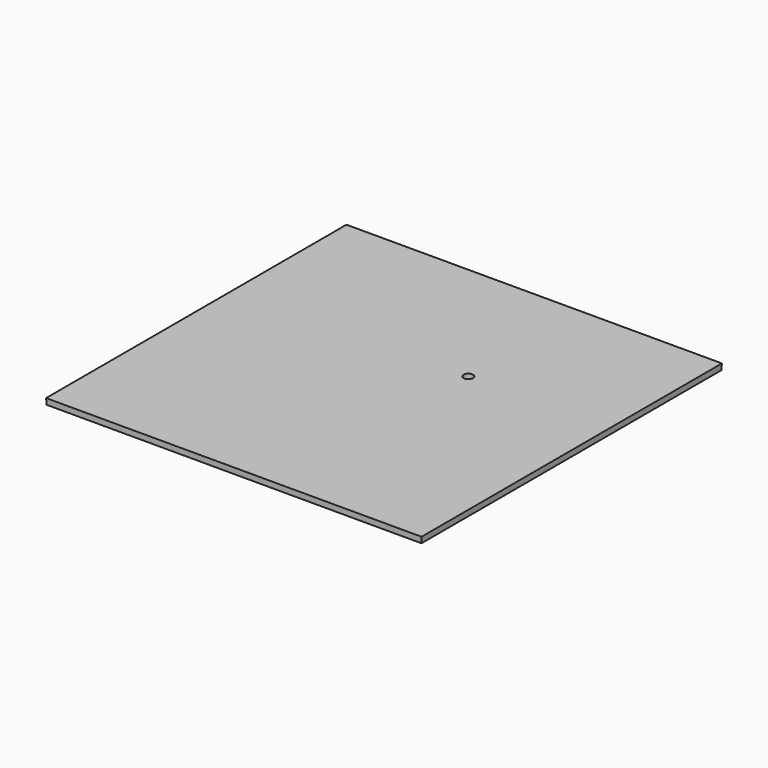
from build123d import *

# Parameters (mm, degrees)
F0_W     = 200
F0_H     = 200
F0_R     = 2.7
F1_DEPTH = 3.2
F1_TAPER = -3


with BuildPart() as f1:
    # F0 (on Top) → F1 (new body)
    with BuildSketch(Plane.XY):
        with Locations((7.575776428, 20.7311080147)):
            Rectangle(F0_W, F0_H)
        with Locations((32.575776428, 45.7311080147)):
            Circle(F0_R, mode=Mode.SUBTRACT)
    extrude(amount=F1_DEPTH, taper=F1_TAPER)


solid = f1.part
